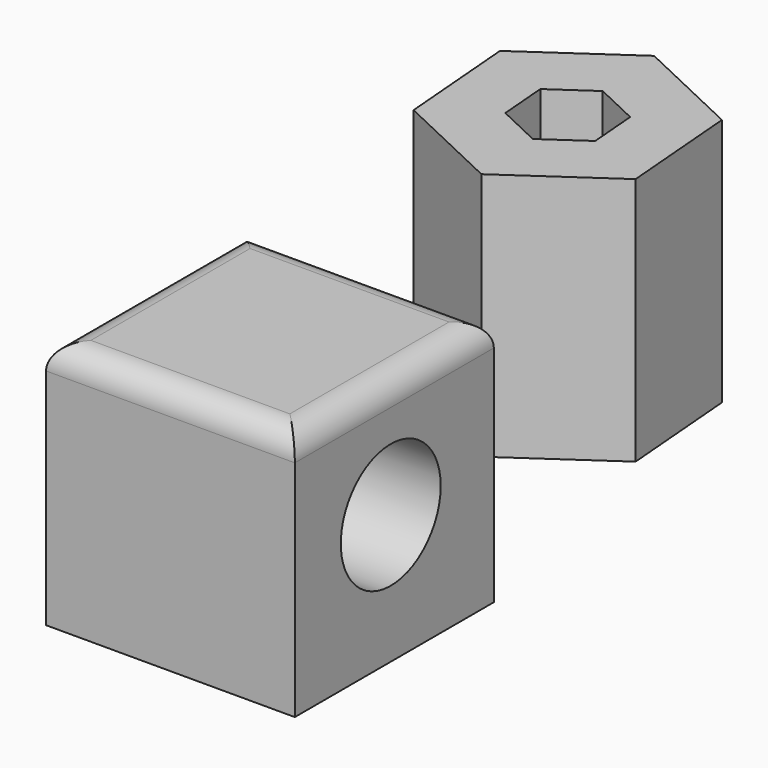
from build123d import *

# Parameters (mm, degrees)
F0_W     = 50.8
F0_H     = 50.8
F1_DEPTH = 50.8
F2_R     = 5.08
F3_R     = 12.750154
F4_DEPTH = 50.801
F6_DEPTH = 50.8
F7_T     = -12.7


with BuildPart() as f1:
    # F0 (on Front) → F1 (new body)
    with BuildSketch(Plane.XZ):
        with Locations((-25.4, 17.349255)):
            Rectangle(F0_W, F0_H)
    extrude(amount=F1_DEPTH)

    # F2
    f2_edges = [f1.edges().sort_by_distance(p)[0] for p in [
        (0, -25.4, 42.749255),
        (-25.4, -50.8, 42.749255),
        (-50.8, -25.4, 42.749255),
        (-25.4, 0, 42.749255),
    ]]
    fillet(f2_edges, radius=F2_R)

    # F3 (on face) → F4 (cut, through all)
    with BuildSketch(Plane.YZ):
        with Locations((-26.314387, 18.357068)):
            Circle(F3_R)
    extrude(amount=-F4_DEPTH, mode=Mode.SUBTRACT)


with BuildPart() as f6:
    # F5 (on Top) → F6 (new body)
    with BuildSketch(Plane.XY):
        Polygon((-45.558483, 36.471677), (-23.278968, 25.936803), (-3.015743, 39.963992), (-5.032032, 64.526055), (-27.311547, 75.060928), (-47.574772, 61.033739), align=None)
    extrude(amount=F6_DEPTH)

    # F7
    f7_openings = [f6.faces().sort_by_distance(p)[0] for p in [
        (-25.295258, 50.498866, 50.8),
    ]]
    offset(amount=F7_T, openings=f7_openings)


solid = Compound([f1.part, f6.part])
